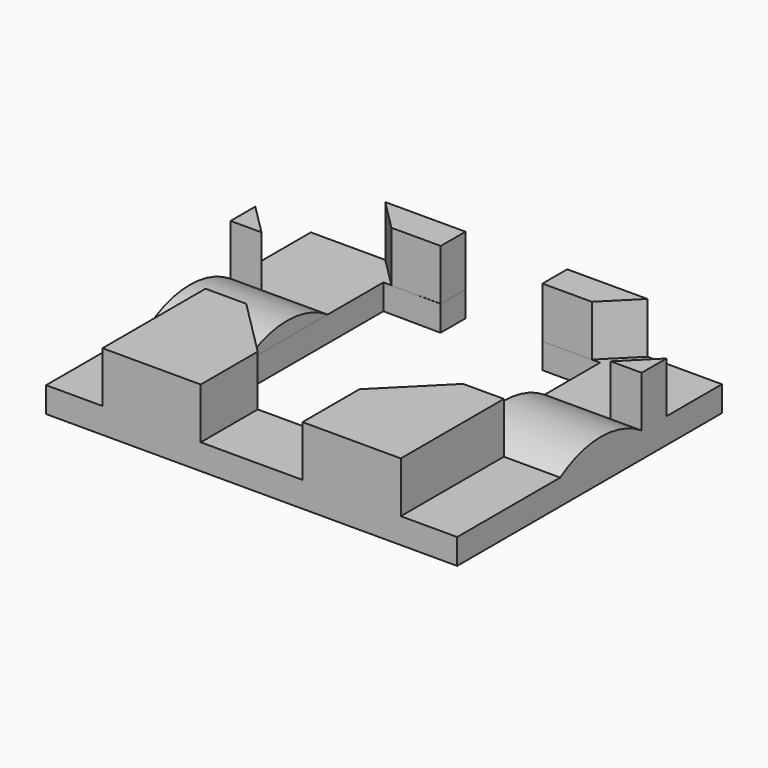
from build123d import *

# Parameters (mm, degrees)
F1_DEPTH = 12.7
F3_DEPTH = 6.35
F5_DEPTH = 102.616
F6_W     = 54.1368234
F6_H     = 25.3999995561
F7_DEPTH = 6.35


with BuildPart() as f1:
    # F0 (on Top) → F1 (new body)
    with BuildSketch(Plane.XY):
        Polygon((10.16, 0), (0, 0), (0, -32.1484097937), (24.5284097937, -32.1484097937), (24.5284097937, -14.3684097937), align=None)
    extrude(amount=F1_DEPTH)



with BuildPart() as f1b:
    # F0 (on Top) → F1, piece 2 (new body)
    with BuildSketch(Plane.XY):
        Polygon((24.5284097937, 50.4402085561), (4.5087214192, 50.4402085561), (12.2293054192, 42.7196245561), (24.5284097937, 42.7196245561), align=None)
    extrude(amount=F1_DEPTH)


with BuildPart() as f1c:
    # F0 (on Top) → F1, piece 3 (new body)
    with BuildSketch(Plane.XY):
        Polygon((49.9284097937, 42.7196245561), (62.2275137532, 42.7196245561), (69.9480977532, 50.4402085561), (49.9284097937, 50.4402085561), align=None)
    extrude(amount=F1_DEPTH)


with BuildPart() as f1d:
    # F0 (on Top) → F1, piece 4 (new body)
    with BuildSketch(Plane.XY):
        Polygon((74.4568195862, 0), (64.2968195874, 0), (49.9284097937, -14.3684097937), (49.9284097937, -32.1484097937), (74.4568195862, -32.1484097937), align=None)
    extrude(amount=F1_DEPTH)


with BuildPart() as f1e:
    # F0 (on Top) → F1, piece 5 (new body)
    with BuildSketch(Plane.XY):
        Polygon((88.5274035862, 33.120584), (80.8068195862, 25.4), (88.5274035862, 25.4), align=None)
    extrude(amount=F1_DEPTH)


with BuildPart() as f1f:
    # F0 (on Top) → F1, piece 6 (new body)
    with BuildSketch(Plane.XY):
        Polygon((-14.0705839987, 25.4), (-6.3499999987, 25.4), (-14.0705839987, 33.120584), align=None)
    extrude(amount=F1_DEPTH)


with BuildPart() as f3:
    # F2 (on Top) → F3 (new body)
    with BuildSketch(Plane.XY):
        Polygon((24.5284097937, 50.4402085561), (-14.0705839987, 50.4402085561), (-14.0705839987, -32.1484097937), (88.5274035862, -32.1484097937), (88.5274035862, 50.4402085561), (49.9284097937, 50.4402085561), (49.9284097937, 42.7196245561), (64.2968195874, 42.7196245561), (64.2968195874, 0), (49.9284097937, -14.3684097937), (24.5284097937, -14.3684097937), (10.16, 0), (10.16, 42.8089028328), (24.5284097937, 42.6528243452), align=None)
    extrude(amount=-F3_DEPTH)


with BuildPart() as f1_1:
    add(f1.part)

    add(f1d.part)  # F5 merges F1d

    add(f1e.part)  # F5 merges F1e

    add(f1f.part)  # F5 merges F1f

    add(f3.part)  # F5 merges F3
    # F4 (on face) → F5 (join)
    with BuildSketch(Plane.YZ.offset(88.5274035862)):
        with BuildLine():
            Line((0, 0), (25.3999995561, 0))
            ThreePointArc((25.3999995561, 0), (12.699999778, 3.81), (0, 0))
        make_face()
    extrude(amount=-F5_DEPTH)

    # F6 (on face) → F7 (cut)
    with BuildSketch(Plane.XY):
        with Locations((37.2284078874, 12.699999778)):
            Rectangle(F6_W, F6_H)
    extrude(amount=F7_DEPTH, mode=Mode.SUBTRACT)


solid = Compound([f1b.part, f1c.part, f1_1.part])
